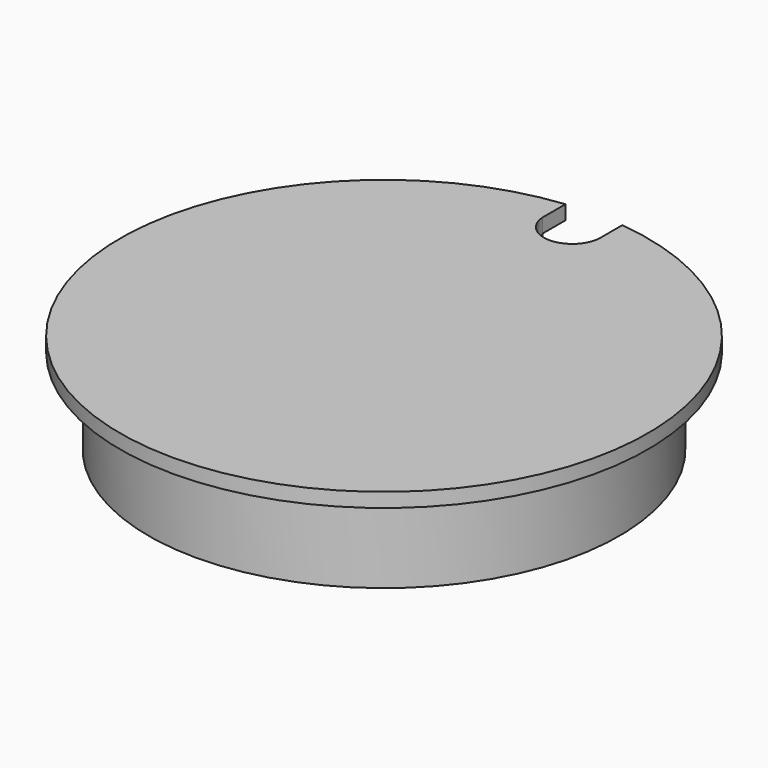
from build123d import *

# Parameters (mm, degrees)
SKETCH_R     = 16.55
PAD_DEPTH    = 6
SKETCH001_R  = 2
POCKET_DEPTH = 6.001
PAD001_DEPTH = 1


with BuildPart() as part:
    # Sketch → Pad (new body)
    with BuildSketch(Plane.XY):
        Circle(SKETCH_R)
    extrude(amount=PAD_DEPTH)

    # Sketch001 (on Face3 of Pad) → Pocket (cut, through all)
    with BuildSketch(Plane.XY.offset(6)):
        with Locations((0, 16.55)):
            Circle(SKETCH001_R)
    extrude(amount=-POCKET_DEPTH, mode=Mode.SUBTRACT)

    # Sketch002 (on Face4 of Pocket) → Pad001 (join)
    with BuildSketch(Plane.XY.offset(6)):
        with BuildLine():
            ThreePointArc((-1.996346, 18.442436), (0, -18.550171), (1.996346, 18.442436))
            Line((1.992658, 16.378788), (1.996346, 18.442436))
            ThreePointArc((-1.996346, 16.429154), (-0.025251, 14.550159), (1.992658, 16.378788))
            Line((-1.996346, 16.429154), (-1.996346, 18.442436))
        make_face()
    extrude(amount=PAD001_DEPTH)


solid = part.part
